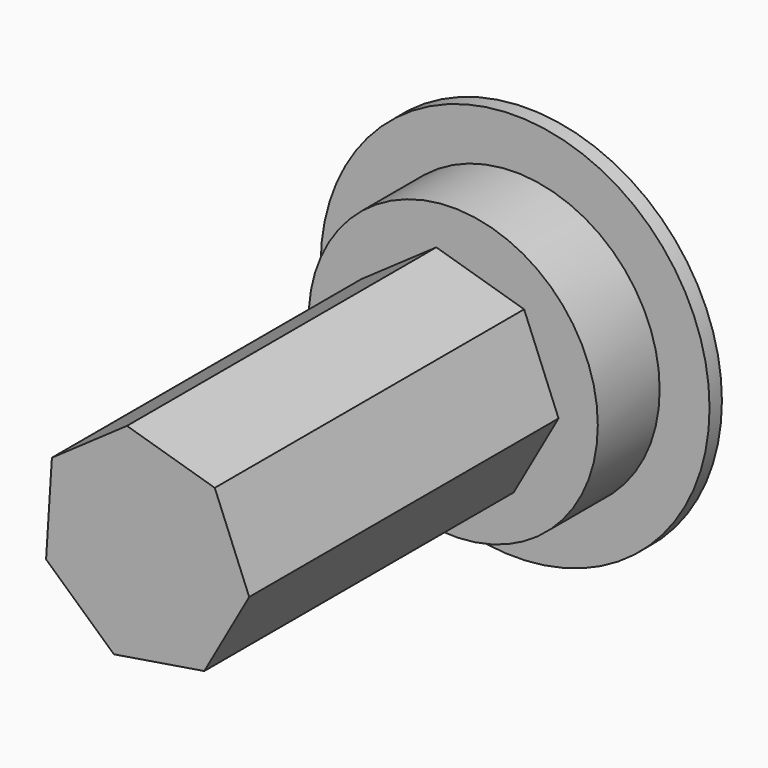
from build123d import *

# Parameters (mm, degrees)
F0_R     = 25.142108
F1_DEPTH = 2
F2_R     = 18.693726
F3_DEPTH = 10
F5_DEPTH = 50


with BuildPart() as f1:
    # F0 (on Front) → F1 (new body)
    with BuildSketch(Plane.XZ):
        Circle(F0_R)
    extrude(amount=F1_DEPTH)

    # F2 (on face) → F3 (join)
    with BuildSketch(Plane.XZ.offset(2)):
        Circle(F2_R)
    extrude(amount=F3_DEPTH)

    # F4 (on face) → F5 (join)
    with BuildSketch(Plane.XZ.offset(12)):
        Polygon((-12.644799, -5.127543), (-3.875029, -13.083073), (7.812717, -11.186782), (13.617328, -0.866616), (9.167813, 10.106129), (-2.185252, 13.468753), (-11.892778, 6.689131), align=None)
    extrude(amount=F5_DEPTH)


solid = f1.part
